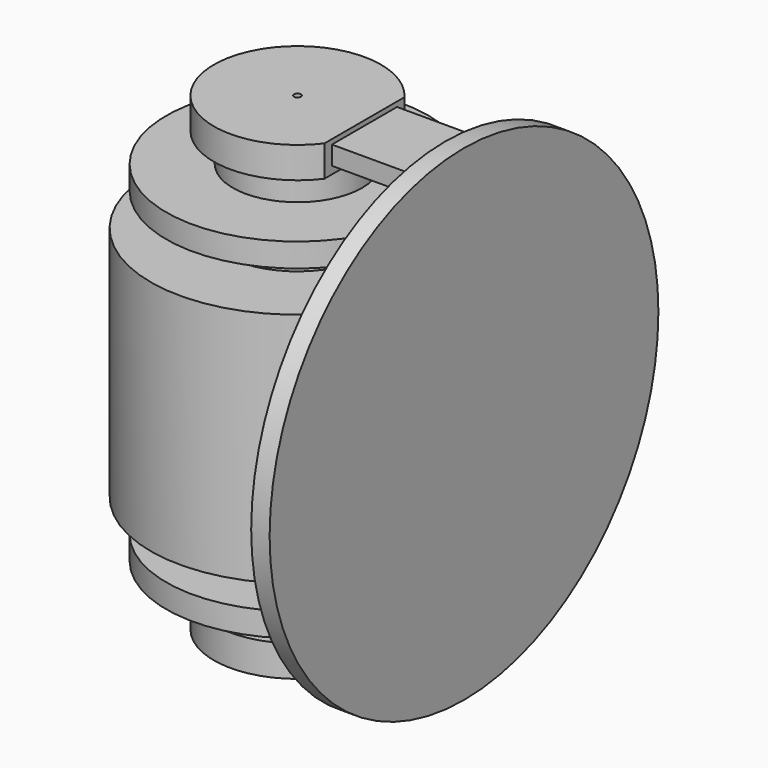
from build123d import *

# Parameters (mm, degrees)
F2_W     = 69.451071322
F2_H     = 59.5968812704
F3_DEPTH = 127
F4_W     = 56.0608096421
F4_H     = 12.9187703133
F5_DEPTH = 55.88
F6_R     = 167.4278885547
F7_DEPTH = 12.7


with BuildPart() as f1:
    # F0 (on Front) → F1 (revolve)
    with BuildSketch(Plane.XZ):
        Polygon((19.2788038403, 161.9556288534), (2.3539757822, 161.9556288534), (2.3539757822, 0), (101.1059731245, 0), (101.1059731245, 81.5908461809), (50.6069213152, 81.5908461809), (50.6069213152, 104.0337234735), (90.3515517712, 104.0337234735), (90.3515517712, 120.3983277082), (44.5283316076, 120.3983277082), (44.5283316076, 140.5034065247), (57.6206743717, 140.5034065247), (57.6206743717, 161.9556288534), align=None)
        Polygon((101.1059731245, 0), (2.3539757822, 0), (2.3539757822, -142.8443711466), (2.3539757822, -161.9556288534), (19.2788038403, -161.9556288534), (57.6206743717, -161.9556288534), (57.6206743717, -140.5034065247), (44.5283316076, -140.5034065247), (44.5283316076, -120.3983277082), (90.3515517712, -120.3983277082), (90.3515517712, -104.0337234735), (50.6069213152, -104.0337234735), (50.6069213152, -81.5908461809), (101.1059731245, -81.5908461809), align=None)
    revolve(axis=Axis((0, 0, 9.5556288534), (0, 0, -1)))

    # F2 (on Front) → F3 (cut, symmetric)
    with BuildSketch(Plane.XZ):
        with Locations((80.894831568, 163.0262359977)):
            Rectangle(F2_W, F2_H)
        with Locations((80.894831568, -163.0262359977)):
            Rectangle(F2_W, F2_H)
    extrude(amount=F3_DEPTH, both=True, mode=Mode.SUBTRACT)

    # F4 (on face) → F5 (join)
    with BuildSketch(Plane.YZ.offset(46.169295907)):
        with Locations((0, 152.1677672863)):
            Rectangle(F4_W, F4_H)
        with Locations((0, -152.1677672863)):
            Rectangle(F4_W, F4_H)
    extrude(amount=F5_DEPTH)

    # F6 (on face) → F7 (join)
    with BuildSketch(Plane.YZ.offset(102.049295907)):
        Circle(F6_R)
    extrude(amount=F7_DEPTH)


solid = f1.part
